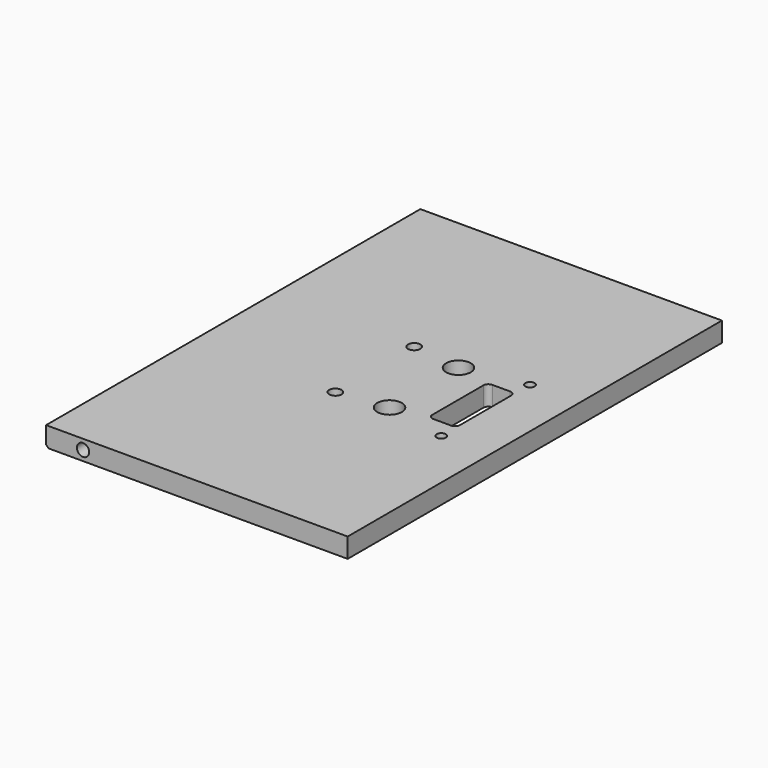
from build123d import *

# Parameters (mm, degrees)
F0_W          = 139.7
F0_H          = 10.16
F1_DEPTH      = 120.65
F1_DEPTH_BACK = 120.65
F2_R          = 3.175
F2_R_2        = 6.35
F2_R_3        = 2.413
F2_W          = 14.3002
F2_H          = 38.1
F3_DEPTH      = 10.161
F4_R          = 2.54
F5_DEPTH      = 15.875
F6_R          = 3.175
F7_DEPTH      = 25.4
F8_R          = 3.175
F9_DEPTH      = 25.4
F10_SIZE      = 1.27
F12_R         = 9.525
F12_R_2       = 4.7625
F13_DEPTH     = 3.175
F14_R         = 6.35
F14_R_2       = 4.7625
F15_DEPTH     = 4.7498


with BuildPart() as f1:
    # F0 (on Front) → F1 (new body, two sides)
    with BuildSketch(Plane.XZ) as f1_sk:
        with Locations((-19.05, 0.3175)):
            Rectangle(F0_W, F0_H)
    extrude(amount=F1_DEPTH)
    extrude(f1_sk.sketch, amount=-F1_DEPTH_BACK)

    # F2 (on face) → F3 (cut, through all)
    with BuildSketch(Plane.XY.offset(5.3975)):
        with Locations((-31.75, 25.4)):
            Circle(F2_R)
        with Locations((-31.75, -25.4)):
            Circle(F2_R)
        with Locations((-6.35, 22.225)):
            Circle(F2_R_2)
        with Locations((-6.35, -22.225)):
            Circle(F2_R_2)
        with Locations((25.4, 28.575)):
            Circle(F2_R_3)
        with Locations((25.4, -28.575)):
            Circle(F2_R_3)
        with Locations((18.2499, 0)):
            Rectangle(F2_W, F2_H)
    extrude(amount=-F3_DEPTH, mode=Mode.SUBTRACT)

    # F4
    f4_edges = [f1.edges().sort_by_distance(p)[0] for p in [
        (11.0998, 19.05, 0.3175),
        (25.4, 19.05, 0.3175),
        (11.0998, -19.05, 0.3175),
        (25.4, -19.05, 0.3175),
    ]]
    fillet(f4_edges, radius=F4_R)

    # F5 (add): a face of the model
    f5_faces = [f1.faces().sort_by_distance(p)[0] for p in [
        (-88.9, 0, 0.3175),
    ]]
    extrude(f5_faces, amount=F5_DEPTH)

    # F6 (on face) → F7 (cut)
    with BuildSketch(Plane.XZ.offset(120.65)):
        with Locations((-85.725, 0.3175)):
            Circle(F6_R)
    extrude(amount=-F7_DEPTH, mode=Mode.SUBTRACT)

    # F8 (on face) → F9 (cut)
    with BuildSketch(Plane(origin=(0, 120.65, 0), x_dir=(-1, 0, 0), z_dir=(0, 1, 0))):
        with Locations((85.725, 0.3175)):
            Circle(F8_R)
    extrude(amount=-F9_DEPTH, mode=Mode.SUBTRACT)

    # F10
    f10_edges = [f1.edges().sort_by_distance(p)[0] for p in [
        (-104.775, 0, -4.7625),
    ]]
    chamfer(f10_edges, length=F10_SIZE)


with BuildPart() as f13:
    # F12 (on offset) → F13 (new body)
    with BuildSketch(Plane(origin=(0, 0, -17.4625), x_dir=(1, 0, 0), z_dir=(0, 0, -1))):
        with Locations((-6.35, 22.225)):
            Circle(F12_R)
        with Locations((-6.35, 22.225)):
            Circle(F12_R_2, mode=Mode.SUBTRACT)
    extrude(amount=F13_DEPTH)

    # F14 (on face) → F15 (join)
    with BuildSketch(Plane(origin=(0, 0, -20.6375), x_dir=(1, 0, 0), z_dir=(0, 0, -1))):
        with Locations((-6.35, 22.225)):
            Circle(F14_R)
        with Locations((-6.35, 22.225)):
            Circle(F14_R_2, mode=Mode.SUBTRACT)
    extrude(amount=F15_DEPTH)


solid = Compound([f1.part, f13.part])
